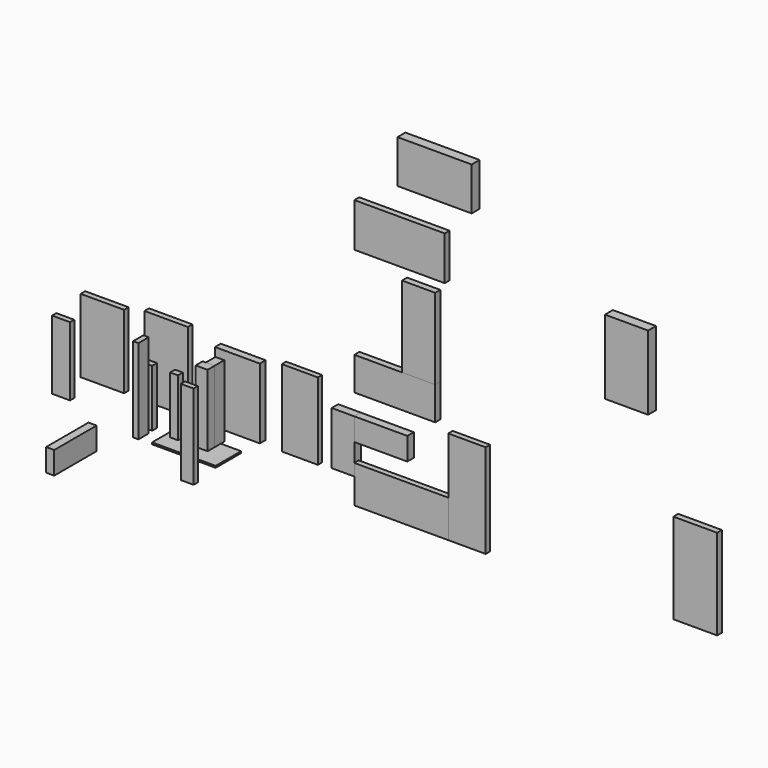
from build123d import *

# Parameters (mm, degrees)
F0_W      = 615
F0_H      = 80
F1_DEPTH  = 1040
F2_DEPTH  = 1120
F0_W_2    = 635
F0_H_2    = 103
F3_DEPTH  = 995
F0_W_3    = 510
F0_H_3    = 75
F4_DEPTH  = 1090
F0_W_4    = 255
F5_DEPTH  = 975
F0_W_5    = 620
F0_H_4    = 85
F6_DEPTH  = 1280
F0_W_6    = 110
F7_DEPTH  = 810
F8_DEPTH  = 810
F0_W_7    = 170
F0_H_5    = 125
F9_DEPTH  = 1015
F0_W_8    = 470
F0_H_6    = 90
F10_DEPTH = 1145
F0_W_9    = 320
F0_H_7    = 115
F11_DEPTH = 750
F0_W_10   = 530
F0_H_8    = 78
F12_DEPTH = 1330
F0_W_11   = 182
F13_DEPTH = 1200
F14_W     = 900
F14_H     = 25
F15_DEPTH = 450
F0_W_12   = 610
F0_H_9    = 140
F16_DEPTH = 1050
F17_ANGLE = 90
F18_ANGLE = 90
F19_ANGLE = 90
F20_ANGLE = 90
F21_ANGLE = 90


with BuildPart() as f1:
    # F0 (on Top) → F1 (new body)
    with BuildSketch(Plane.XY):
        with Locations((180.6819391251, -16.3598126173)):
            Rectangle(F0_W, F0_H)
    extrude(amount=F1_DEPTH)


with BuildPart() as f2:
    # F0 (on Top) → F2 (new body)
    with BuildSketch(Plane.XY):
        with Locations((1083.8590812683, -16.3598126173)):
            Rectangle(F0_W, F0_H)
    extrude(amount=F2_DEPTH)


with BuildPart() as f3:
    # F0 (on Top) → F3 (new body)
    with BuildSketch(Plane.XY):
        with Locations((2092.5644683838, -4.8598126173)):
            Rectangle(F0_W_2, F0_H_2)
    extrude(amount=F3_DEPTH)


with BuildPart() as f4:
    # F0 (on Top) → F4 (new body)
    with BuildSketch(Plane.XY):
        with Locations((2977.0513820648, -18.8598126173)):
            Rectangle(F0_W_3, F0_H_3)
    extrude(amount=F4_DEPTH)


with BuildPart() as f5:
    # F0 (on Top) → F5 (new body)
    with BuildSketch(Plane.XY):
        with Locations((0.6819391251, -525.9663105011)):
            Rectangle(F0_W_4, F0_H_3)
    extrude(amount=F5_DEPTH)


with BuildPart() as f6:
    # F0 (on Top) → F6 (new body)
    with BuildSketch(Plane.XY):
        with Locations((656.9159007072, -520.9663105011)):
            Rectangle(F0_W_5, F0_H_4)
    extrude(amount=F6_DEPTH)


with BuildPart() as f7:
    # F0 (on Top) → F7 (new body)
    with BuildSketch(Plane.XY):
        with Locations((1236.0500621796, -520.9663105011)):
            Rectangle(F0_W_6, F0_H_4)
    extrude(amount=F7_DEPTH)


with BuildPart() as f8:
    # F0 (on Top) → F8 (new body)
    with BuildSketch(Plane.XY):
        with Locations((1602.0836162567, -520.9663105011)):
            Rectangle(F0_W_6, F0_H_4)
    extrude(amount=F8_DEPTH)


with BuildPart() as f9:
    # F0 (on Top) → F9 (new body)
    with BuildSketch(Plane.XY):
        with Locations((1991.0781002045, -500.9663105011)):
            Rectangle(F0_W_7, F0_H_5)
    extrude(amount=F9_DEPTH)


with BuildPart() as f10:
    # F0 (on Top) → F10 (new body)
    with BuildSketch(Plane.XY):
        with Locations((2510.6311893463, -518.4663105011)):
            Rectangle(F0_W_8, F0_H_6)
    extrude(amount=F10_DEPTH)


with BuildPart() as f11:
    # F0 (on Top) → F11 (new body)
    with BuildSketch(Plane.XY):
        with Locations((3202.8938865662, -505.9663105011)):
            Rectangle(F0_W_9, F0_H_7)
    extrude(amount=F11_DEPTH)


with BuildPart() as f12:
    # F0 (on Top) → F12 (new body)
    with BuildSketch(Plane.XY):
        with Locations((3888.6200332642, -524.4663105011)):
            Rectangle(F0_W_10, F0_H_8)
    extrude(amount=F12_DEPTH)


with BuildPart() as f13:
    # F0 (on Top) → F13 (new body)
    with BuildSketch(Plane.XY):
        with Locations((2366.6311893463, -1250.5003452301)):
            Rectangle(F0_W_11, F0_H_3)
    extrude(amount=F13_DEPTH)


with BuildPart() as f15:
    # F14 (on Front) → F15 (new body)
    with BuildSketch(Plane.XZ):
        with Locations((1649.4853049517, -232.8324603042)):
            Rectangle(F14_W, F14_H)
    extrude(amount=F15_DEPTH)


with BuildPart() as f16:
    # F0 (on Top) → F16 (new body)
    with BuildSketch(Plane.XY):
        with Locations((178.1819391251, 270.9828388691)):
            Rectangle(F0_W_12, F0_H_9)
    extrude(amount=F16_DEPTH)


with BuildPart() as f6_1:
    # F17: moved
    add(f6.part.rotate(Axis((4153.6200332642, -524.4663105011, 0), (0, 1, 0)), F17_ANGLE))


with BuildPart() as f12_1:
    # F17: moved
    add(f12.part.rotate(Axis((4153.6200332642, -524.4663105011, 0), (0, 1, 0)), F17_ANGLE))


with BuildPart() as f10_1:
    # F17: moved
    add(f10.part.rotate(Axis((4153.6200332642, -524.4663105011, 0), (0, 1, 0)), F17_ANGLE))


with BuildPart() as f16_1:
    # F17: moved
    add(f16.part.rotate(Axis((4153.6200332642, -524.4663105011, 0), (0, 1, 0)), F17_ANGLE))


with BuildPart() as f11_1:
    # F17: moved
    add(f11.part.rotate(Axis((4153.6200332642, -524.4663105011, 0), (0, 1, 0)), F17_ANGLE))


with BuildPart() as f18_1:
    # F18: copy of F13
    add(f13.part.rotate(Axis((2076.0781002045, -438.4663105011, 507.5), (0, 0, -1)), F18_ANGLE))


with BuildPart() as f18_2:
    # F18: copy of F11
    add(f11_1.part.rotate(Axis((2076.0781002045, -438.4663105011, 507.5), (0, 0, -1)), F18_ANGLE))


with BuildPart() as f18_3:
    # F18: copy of F9
    add(f9.part.rotate(Axis((2076.0781002045, -438.4663105011, 507.5), (0, 0, -1)), F18_ANGLE))


with BuildPart() as f19_1:
    # F19: copy of F11
    add(f11_1.part.rotate(Axis((4153.6200332642, -505.9663105011, 1110.726146698), (0, 1, 0)), F19_ANGLE))


with BuildPart() as f20_1:
    # F20: copy of F10
    add(f10_1.part.rotate(Axis((5298.6200332642, -518.4663105011, 1877.9888439178), (0, 1, 0)), F20_ANGLE))


with BuildPart() as f20_2:
    # F20: copy of F16
    add(f16_1.part.rotate(Axis((5298.6200332642, -518.4663105011, 1877.9888439178), (0, 1, 0)), F20_ANGLE))


with BuildPart() as f21_1:
    # F21: copy of F12
    add(f12_1.part.rotate(Axis((5483.6200332642, -524.4663105011, 0), (0, 1, 0)), F21_ANGLE))


with BuildPart() as f21_2:
    # F21: copy of F6
    add(f6_1.part.rotate(Axis((5483.6200332642, -524.4663105011, 0), (0, 1, 0)), F21_ANGLE))


solid = Compound([f1.part, f2.part, f3.part, f4.part, f5.part, f7.part, f8.part, f9.part, f13.part, f15.part, f6_1.part, f12_1.part, f10_1.part, f16_1.part, f11_1.part, f18_1.part, f18_2.part, f18_3.part, f19_1.part, f20_1.part, f20_2.part, f21_1.part, f21_2.part])
